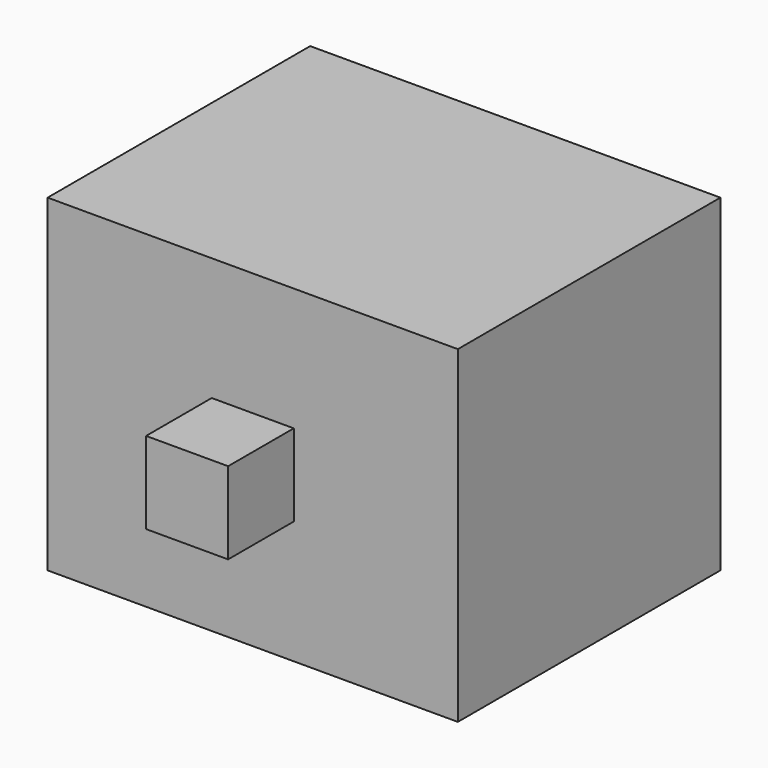
from build123d import *

# Parameters (mm, degrees)
F0_W     = 50
F0_H     = 40
F0_W_2   = 10
F0_H_2   = 10
F1_DEPTH = 40
F4_DEPTH = 10


with BuildPart() as f1:
    # F0 (on Front) → F1 (new body)
    with BuildSketch(Plane.XZ):
        with Locations((-0.869263, 12.341743)):
            Rectangle(F0_W, F0_H)
        with Locations((-0.869263, 12.341743)):
            Rectangle(F0_W_2, F0_H_2, mode=Mode.SUBTRACT)
        with Locations((-0.869263, 12.341743)):
            Rectangle(F0_W_2, F0_H_2)
    extrude(amount=-F1_DEPTH)

    # F0 (on Front) → F4 (join)
    with BuildSketch(Plane.XZ):
        with Locations((-0.869263, 12.341743)):
            Rectangle(F0_W_2, F0_H_2)
    extrude(amount=F4_DEPTH)


solid = f1.part
